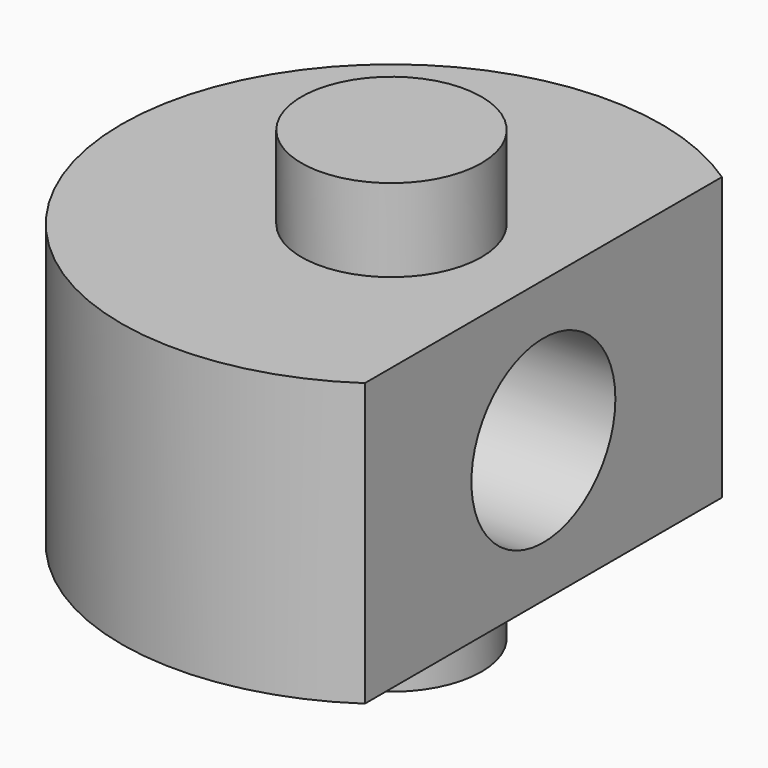
from build123d import *

# Parameters (mm, degrees)
F1_DEPTH = 9.9568
F2_R     = 3.175
F3_DEPTH = 2.921
F4_R     = 3.175
F5_DEPTH = 2.921
F6_R     = 3.175
F7_DEPTH = 12.7


with BuildPart() as f1:
    # F0 (on Top) → F1 (new body)
    with BuildSketch(Plane.XY):
        with BuildLine():
            Line((5.359641, -7.874), (5.359641, 7.874))
            ThreePointArc((5.359641, 7.874), (-9.525, 0), (5.359641, -7.874))
        make_face()
    extrude(amount=F1_DEPTH)

    # F2 (on face) → F3 (join)
    with BuildSketch(Plane.XY.offset(9.9568)):
        Circle(F2_R)
    extrude(amount=F3_DEPTH)

    # F4 (on face) → F5 (join)
    with BuildSketch(Plane(origin=(0, 0, 0), x_dir=(1, 0, 0), z_dir=(0, 0, -1))):
        Circle(F4_R)
    extrude(amount=F5_DEPTH)

    # F6 (on face) → F7 (cut)
    with BuildSketch(Plane.YZ.offset(5.359641)):
        with Locations((0, 4.9784)):
            Circle(F6_R)
    extrude(amount=-F7_DEPTH, mode=Mode.SUBTRACT)


solid = f1.part
